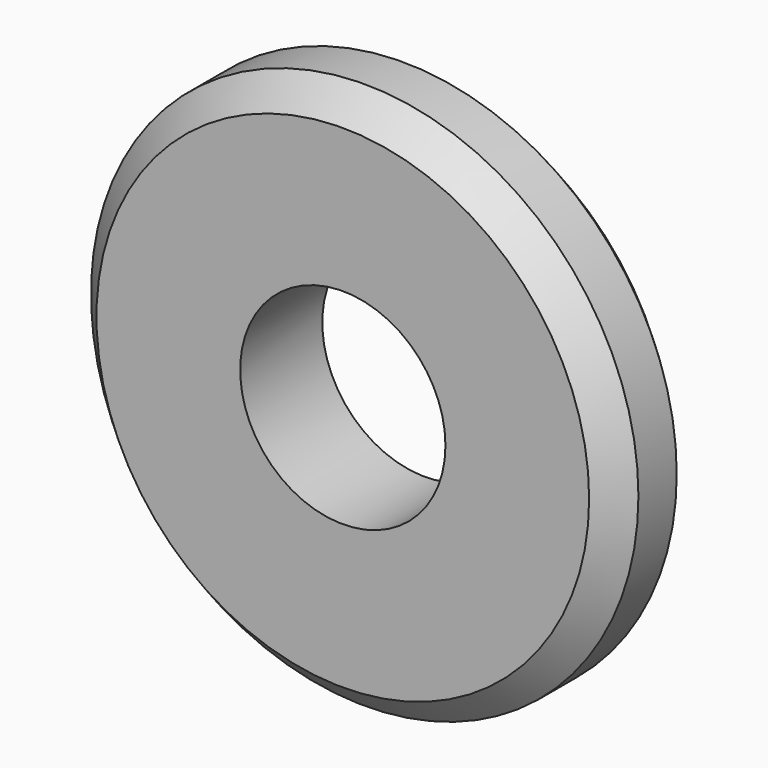
from build123d import *

# Parameters (mm, degrees)
F0_R     = 12.7
F0_R_2   = 4.7625
F1_DEPTH = 4.7625
F2_SIZE  = 1.27


with BuildPart() as f1:
    # F0 (on Front) → F1 (new body)
    with BuildSketch(Plane.XZ):
        Circle(F0_R)
        Circle(F0_R_2, mode=Mode.SUBTRACT)
    extrude(amount=-F1_DEPTH)

    # F2
    f2_edges = [f1.edges().sort_by_distance(p)[0] for p in [
        (-12.7, 0, 0),
        (-12.7, 4.7625, 0),
    ]]
    chamfer(f2_edges, length=F2_SIZE)


solid = f1.part
